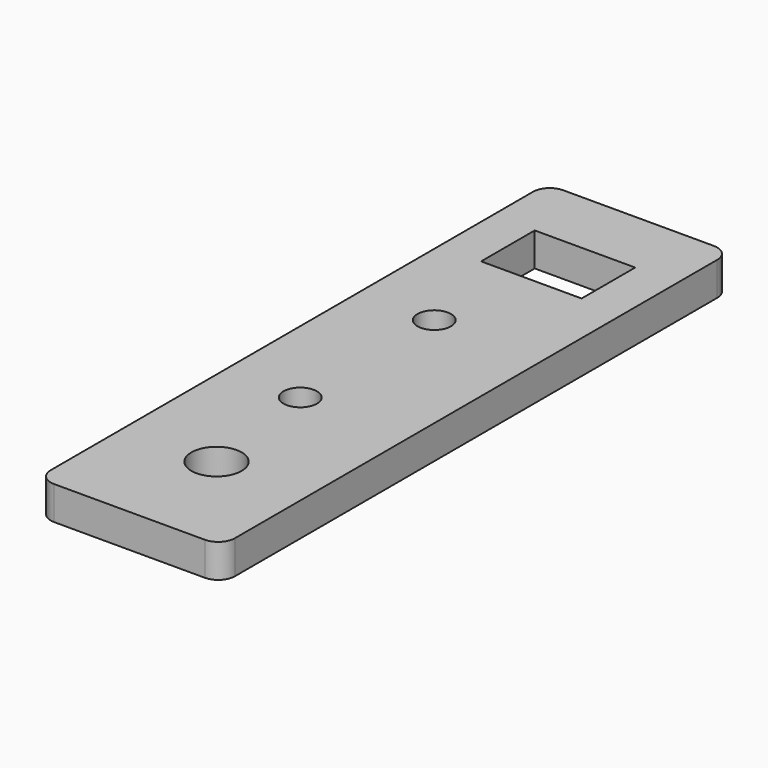
from build123d import *

# Parameters (mm, degrees)
SKETCH324_R      = 1.5
EXTRUDE192_DEPTH = 10
SKETCH321_W      = 6
SKETCH321_H      = 4
EXTRUDE189_DEPTH = 3
SKETCH319_R      = 1
EXTRUDE187_DEPTH = 5
EXTRUDE188_DEPTH = 2


with BuildPart() as extrude192:
    # Sketch324 → Extrude192 (new body)
    with BuildSketch(Plane.XY.offset(-2)):
        with Locations((72.5, -12.5)):
            Circle(SKETCH324_R)
    extrude(amount=EXTRUDE192_DEPTH)


with BuildPart() as extrude189:
    # Sketch321 → Extrude189 (new body)
    with BuildSketch(Plane.XY.offset(3)):
        with Locations((72.5, 13)):
            Rectangle(SKETCH321_W, SKETCH321_H)
    extrude(amount=EXTRUDE189_DEPTH)


with BuildPart() as extrude187:
    # Sketch319 → Extrude187 (new body)
    with BuildSketch(Plane.XY.offset(3)):
        with Locations((71.5, 5)):
            Circle(SKETCH319_R)
        with Locations((71.5, -5)):
            Circle(SKETCH319_R)
    extrude(amount=EXTRUDE187_DEPTH)


with BuildPart() as obj1:
    # Sketch318 → Extrude188 (new body)
    with BuildSketch(Plane.XY.offset(3)):
        with BuildLine():
            Line((67, -18), (67, 18))
            ThreePointArc((68, 19), (67.292893, 18.707107), (67, 18))
            Line((68, 19), (77, 19))
            ThreePointArc((78, 18), (77.707107, 18.707107), (77, 19))
            Line((78, 18), (78, -18))
            ThreePointArc((77, -19), (77.707107, -18.707107), (78, -18))
            Line((68, -19), (77, -19))
            ThreePointArc((67, -18), (67.292893, -18.707107), (68, -19))
        make_face()
    extrude(amount=EXTRUDE188_DEPTH)

    # Cut098: cut Extrude187
    add(extrude187.part, mode=Mode.SUBTRACT)

    # Cut099: cut Extrude189
    add(extrude189.part, mode=Mode.SUBTRACT)


with BuildPart() as obj1_1:
    # Cut099 placement: moved
    add(obj1.part.moved(Location((0, 0, -3))))

    # Cut102: cut Extrude192
    add(extrude192.part, mode=Mode.SUBTRACT)


solid = obj1_1.part
